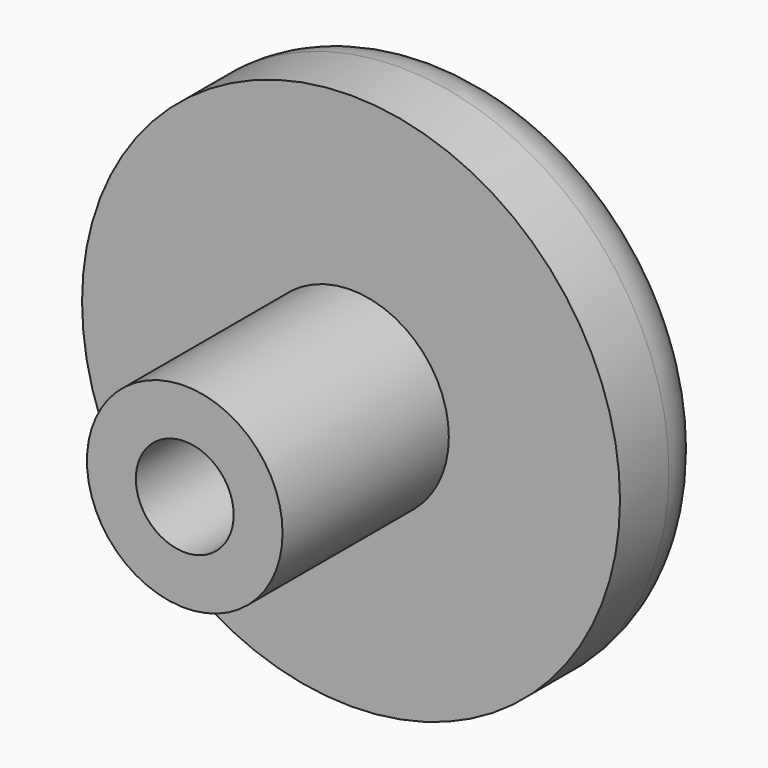
from build123d import *

# Parameters (mm, degrees)
F0_R     = 4
F0_R_2   = 2
F1_DEPTH = 13.5
F0_R_3   = 11
F2_DEPTH = 5
F3_R     = 2.5
F4_DEPTH = 5


with BuildPart() as f1:
    # F0 (on Front) → F1 (new body)
    with BuildSketch(Plane.XZ):
        with Locations((39.711516, 36.201108)):
            Circle(F0_R)
        with Locations((39.711516, 36.201108)):
            Circle(F0_R_2, mode=Mode.SUBTRACT)
    extrude(amount=F1_DEPTH)

    # F0 (on Front) → F2 (join)
    with BuildSketch(Plane.XZ):
        with Locations((39.711516, 36.201108)):
            Circle(F0_R_3)
        with Locations((39.711516, 36.201108)):
            Circle(F0_R, mode=Mode.SUBTRACT)
    extrude(amount=F2_DEPTH)

    # F3
    f3_edges = [f1.edges().sort_by_distance(p)[0] for p in [
        (28.711516, 0, 36.201108),
    ]]
    fillet(f3_edges, radius=F3_R)

    # F0 (on Front) → F4 (join)
    with BuildSketch(Plane.XZ):
        with Locations((39.711516, 36.201108)):
            Circle(F0_R_2)
    extrude(amount=F4_DEPTH)


solid = f1.part
